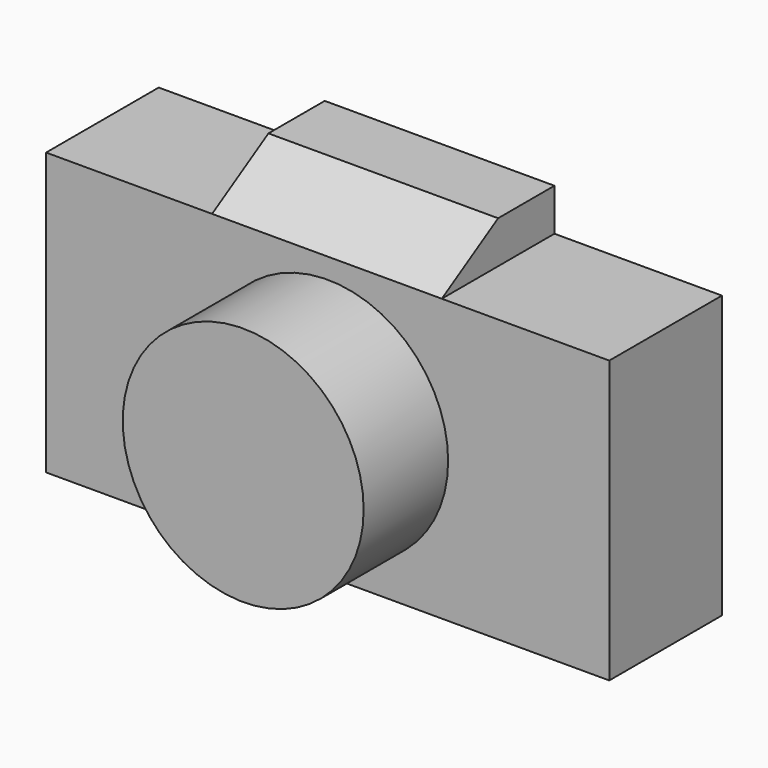
from build123d import *

# Parameters (mm, degrees)
F0_W     = 203.2
F0_H     = 50.8
F1_DEPTH = 101.6
F2_R     = 43.460666
F3_DEPTH = 38.1
F4_W     = 82.872769
F4_H     = 50.8
F5_DEPTH = 15.24
F7_DEPTH = 101.6


with BuildPart() as f1:
    # F0 (on Top) → F1 (new body)
    with BuildSketch(Plane.XY):
        with Locations((-13.052889, -64.237624)):
            Rectangle(F0_W, F0_H)
        with Locations((-13.052889, -64.237624)):
            Rectangle(F0_W, F0_H)
    extrude(amount=F1_DEPTH)

    # F2 (on face) → F3 (join)
    with BuildSketch(Plane.XZ.offset(89.637624)):
        with Locations((-13.052889, 50.8)):
            Circle(F2_R)
        with Locations((-13.052889, 50.8)):
            Circle(F2_R)
    extrude(amount=F3_DEPTH)

    # F4 (on face) → F5 (join)
    with BuildSketch(Plane.XY.offset(101.6)):
        with Locations((-13.317311, -64.237624)):
            Rectangle(F4_W, F4_H)
    extrude(amount=F5_DEPTH)

    # F6 (on face) → F7 (cut)
    with BuildSketch(Plane.YZ.offset(28.119074)):
        Polygon((-89.637624, 116.84), (-89.637624, 101.6), (-64.237624, 116.84), align=None)
    extrude(amount=-F7_DEPTH, mode=Mode.SUBTRACT)


solid = f1.part
